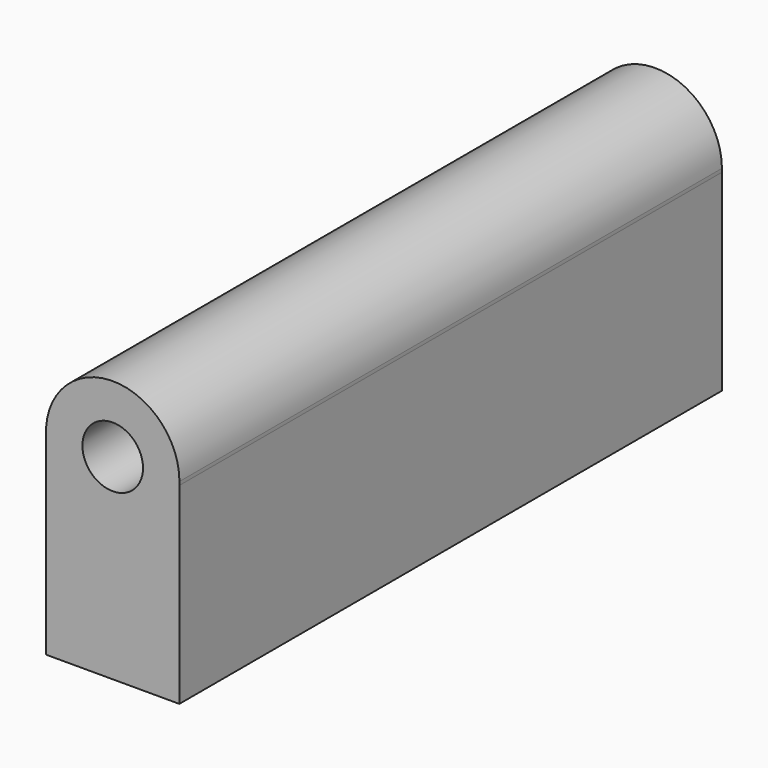
from build123d import *

# Parameters (mm, degrees)
F1_DEPTH = 254


with BuildPart() as f1:
    # F0 (on Front) → F1 (new body)
    with BuildSketch(Plane.XZ):
        with BuildLine():
            ThreePointArc((-12.1720013865, 31.6380374134), (-0.8202474564, 42.9897913434), (10.5315064736, 31.6380374134))
            Line((10.5315064736, 31.6380374134), (24.1386462003, 31.6380374134))
            Line((24.1386462003, 31.6380374134), (24.1386462003, 30.3122636783))
            ThreePointArc((24.1386462003, 30.3122636783), (24.165034612, 30.9749171199), (24.173832814, 31.6380374134))
            ThreePointArc((24.173832814, 31.6380374134), (-1.4833677499, 56.6233194818), (-25.7791411132, 30.3122636783))
            Line((-25.7791411132, 30.3122636783), (-25.7791411132, 31.6380374134))
            Line((-25.7791411132, 31.6380374134), (-12.1720013865, 31.6380374134))
        make_face()
        with BuildLine():
            Line((24.1386462003, 31.6380374134), (10.5315064736, 31.6380374134))
            ThreePointArc((10.5315064736, 31.6380374134), (-0.8202474564, 20.2862834833), (-12.1720013865, 31.6380374134))
            Line((-12.1720013865, 31.6380374134), (-25.7791411132, 31.6380374134))
            Line((-25.7791411132, 31.6380374134), (-25.7791411132, 30.3122636783))
            ThreePointArc((-25.7791411132, 30.3122636783), (-0.8202474564, 6.6439571429), (24.1386462003, 30.3122636783))
            Line((24.1386462003, 30.3122636783), (24.1386462003, 31.6380374134))
        make_face()
        with BuildLine():
            Line((24.1386462003, -41.7153351009), (24.1386462003, 30.3122636783))
            ThreePointArc((24.1386462003, 30.3122636783), (-0.8202474564, 6.6439571429), (-25.7791411132, 30.3122636783))
            Line((-25.7791411132, 30.3122636783), (-25.7791411132, -41.7153351009))
            Line((-25.7791411132, -41.7153351009), (24.1386462003, -41.7153351009))
        make_face()
    extrude(amount=F1_DEPTH)


solid = f1.part
